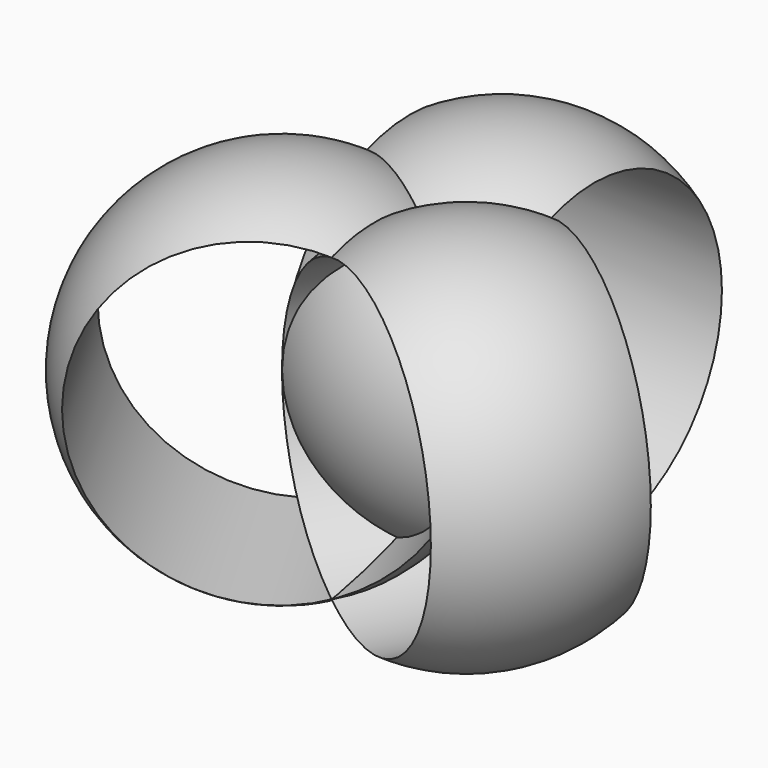
from build123d import *


with BuildPart() as f1:
    # F0 (on Top) → F1 (revolve)
    with BuildSketch(Plane.XY):
        with BuildLine():
            Line((11.741411, -6.778907), (-11.741411, -6.778907))
            ThreePointArc((-11.741411, -6.778907), (0, -9.925008), (11.741411, -6.778907))
        make_face()
    revolve(axis=Axis((-0.623311, 13.557813, 0), (1, 0, 0)))


with BuildPart() as f2:
    # F0 (on Top) → F2 (revolve)
    with BuildSketch(Plane.XY):
        with BuildLine():
            Line((-11.741411, -6.778907), (0, 13.557813))
            ThreePointArc((0, 13.557813), (-8.595309, 4.962504), (-11.741411, -6.778907))
        make_face()
    revolve(axis=Axis((15.367259, -0.498753, 0), (0.5, 0.866025, 0)))


with BuildPart() as f3:
    # F0 (on Top) → F3 (revolve)
    with BuildSketch(Plane.XY):
        with BuildLine():
            ThreePointArc((11.741411, -6.778907), (8.595309, 4.962504), (0, 13.557813))
            Line((0, 13.557813), (11.741411, -6.778907))
        make_face()
    revolve(axis=Axis((-15.130864, -0.908201, 0), (-0.5, 0.866025, 0)))


solid = Compound([f1.part, f2.part, f3.part])
